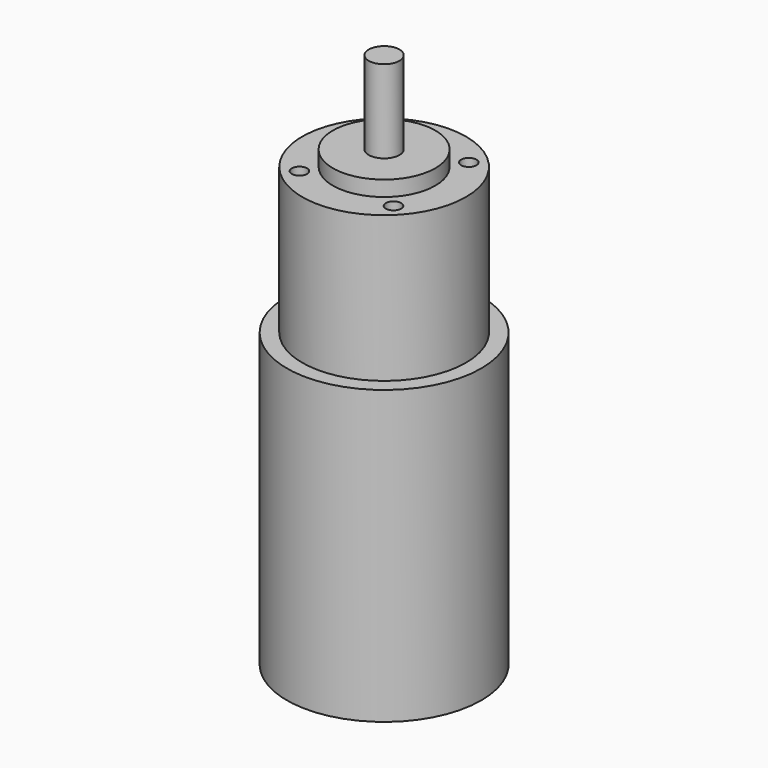
from build123d import *

# Parameters (mm, degrees)
F0_R     = 19
F1_DEPTH = 57.1
F2_R     = 16
F3_DEPTH = 28.5
F4_R     = 10
F5_DEPTH = 3
F6_R     = 3
F7_DEPTH = 16.2
F9_D     = 3
F9_DEPTH = 5
F9_TIP   = 0.9012909285


with BuildPart() as f1:
    # F0 (on Top) → F1 (new body)
    with BuildSketch(Plane.XY):
        Circle(F0_R)
    extrude(amount=F1_DEPTH)

    # F2 (on face) → F3 (join)
    with BuildSketch(Plane.XY.offset(57.1)):
        Circle(F2_R)
    extrude(amount=F3_DEPTH)

    # F4 (on face) → F5 (join)
    with BuildSketch(Plane.XY.offset(85.6)):
        Circle(F4_R)
    extrude(amount=F5_DEPTH)

    # F6 (on face) → F7 (join)
    with BuildSketch(Plane.XY.offset(88.6)):
        Circle(F6_R)
    extrude(amount=F7_DEPTH)

    # F9
    with Locations(Plane.XY.offset(85.6)):
        with Locations((-9.1923881554, 9.1923881554), (9.1923881554, 9.1923881554), (9.1923881554, -9.1923881554), (-9.1923881554, -9.1923881554)):
            Hole(F9_D / 2, depth=F9_DEPTH)
            with Locations((0, 0, -(F9_DEPTH + F9_TIP / 2))):  # 118° drill point
                Cone(0, F9_D / 2, F9_TIP, mode=Mode.SUBTRACT)


solid = f1.part
